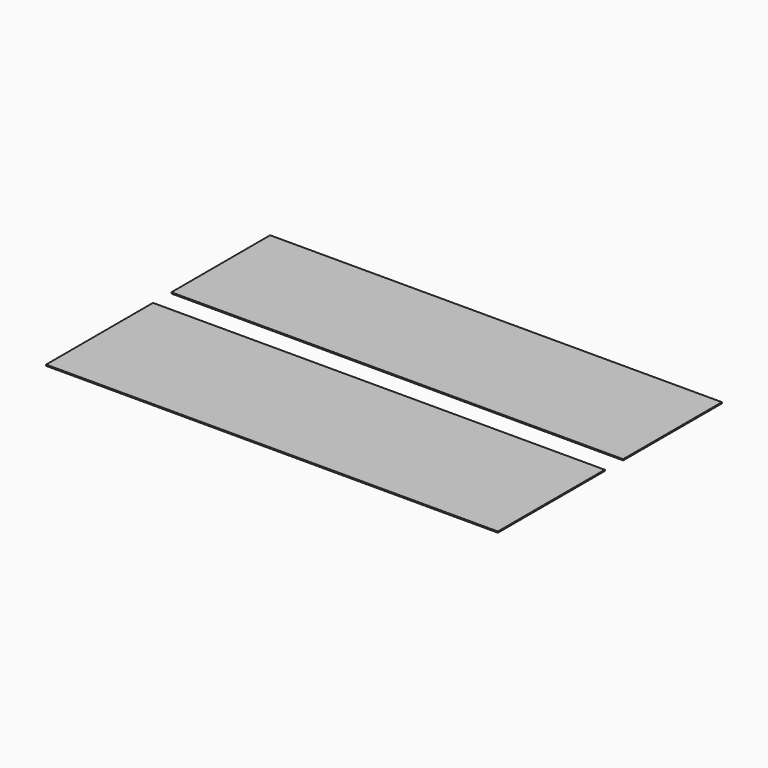
from build123d import *

# Parameters (mm, degrees)
F0_W       = 250.0122
F0_H       = 68.32092
F1_DEPTH   = 0.635
F2_W       = 250.0122
F2_H       = 73.95464
F3_DEPTH   = 0.635
F4_D       = 0.127
F4_ON_F2_D = 0.127


with BuildPart() as f1:
    # F0 (on Top) → F1 (new body)
    with BuildSketch(Plane.XY):
        Rectangle(F0_W, F0_H)
    extrude(amount=F1_DEPTH)

    # F4 (through all)
    with Locations(Plane(origin=(0, 0, 0), x_dir=(1, 0, 0), z_dir=(0, 0, -1))):
        with Locations((-125.0061, -18.09496), (-125.0061, 15.5702), (125.0061, 15.5702), (125.0061, -18.09496)):
            Hole(F4_D / 2)


with BuildPart() as f3:
    # F2 (on Top) → F3 (new body)
    with BuildSketch(Plane.XY):
        with Locations((0, -83.83778)):
            Rectangle(F2_W, F2_H)
    extrude(amount=F3_DEPTH)

    # F4 on F2 (through all)
    with Locations(Plane(origin=(0, 0, 0), x_dir=(1, 0, 0), z_dir=(0, 0, -1))):
        with Locations((-125.0061, 64.09436), (-125.0061, 100.32238), (125.0061, 100.32238), (125.0061, 64.09436)):
            Hole(F4_ON_F2_D / 2)


solid = Compound([f1.part, f3.part])
